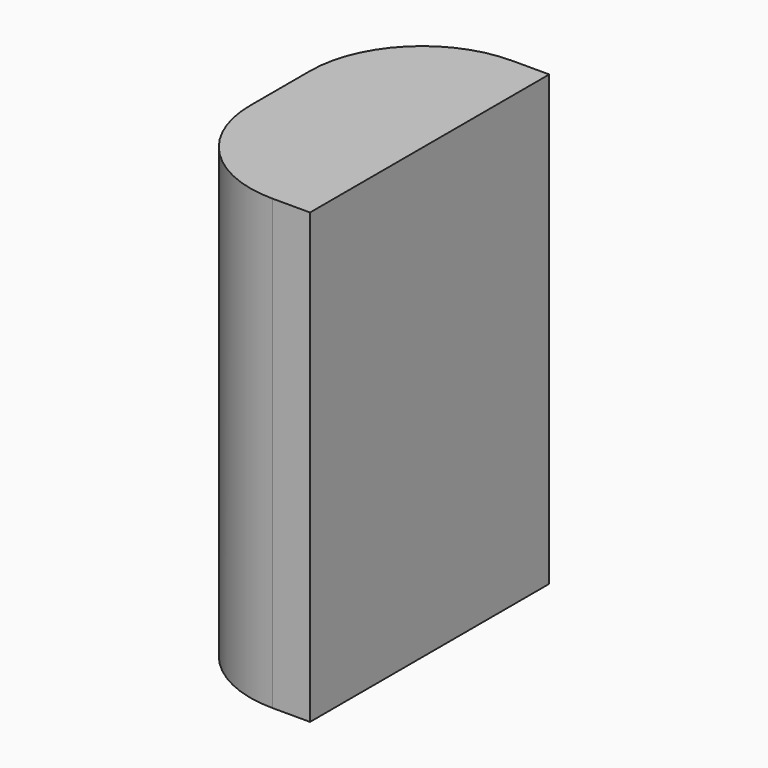
from build123d import *

# Parameters (mm, degrees)
F1_DEPTH = 152.4


with BuildPart() as f1:
    # F0 (on Top) → F1 (new body)
    with BuildSketch(Plane.XY):
        with BuildLine():
            Line((37.05436, 32.353097), (24.35436, 32.353097))
            ThreePointArc((24.35436, 32.353097), (-2.586409, 21.193865), (-13.74564, -5.746903))
            Line((-13.74564, -5.746903), (-13.74564, -18.446903))
            Line((-13.74564, -18.446903), (37.05436, -18.446903))
            Line((37.05436, -18.446903), (37.05436, 32.353097))
        make_face()
        with BuildLine():
            Line((37.05436, -69.246903), (37.05436, -18.446903))
            Line((37.05436, -18.446903), (-13.74564, -18.446903))
            Line((-13.74564, -18.446903), (-13.74564, -31.146903))
            ThreePointArc((-13.74564, -31.146903), (-2.586409, -58.087671), (24.35436, -69.246903))
            Line((24.35436, -69.246903), (37.05436, -69.246903))
        make_face()
    extrude(amount=F1_DEPTH)


solid = f1.part
